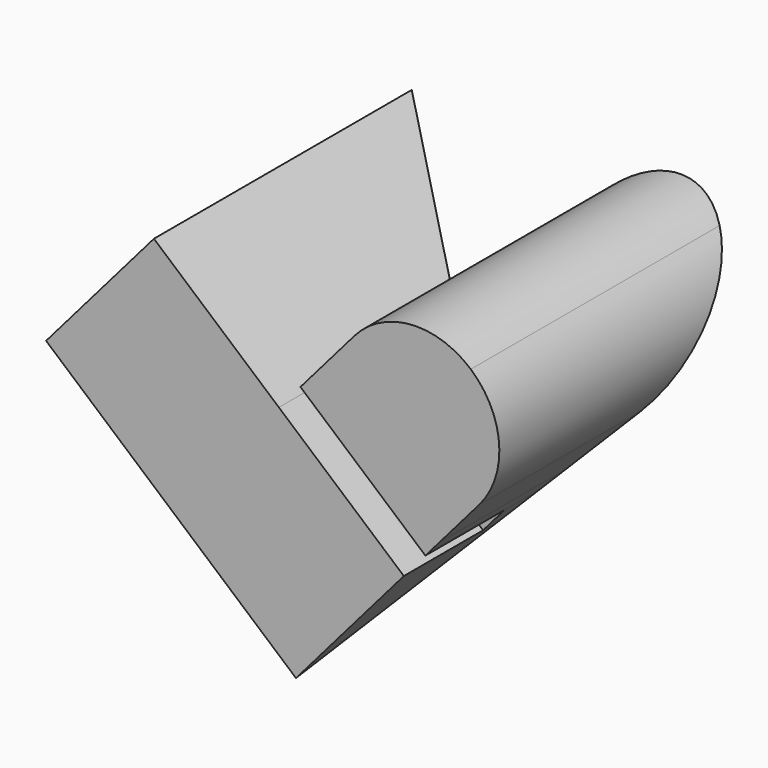
from build123d import *

# Parameters (mm, degrees)
F2_DEPTH = 70
F3_DEPTH = 100
F4_DEPTH = 100


with BuildPart() as f2:
    # F0 (on Front) → F2 (new body)
    with BuildSketch(Plane.XZ):
        Polygon((-13.698499, 25.242625), (24.15161, -7.427993), (30.685734, 0.142029), (-7.164375, 32.812647), align=None)
    extrude(amount=F2_DEPTH)

    # F0 (on Front) → F3 (join)
    with BuildSketch(Plane.XZ):
        Polygon((-84.219225, 20.063134), (-8.519008, -45.278101), (24.15161, -7.427993), (-13.698499, 25.242625), (-51.548607, 57.913243), align=None)
        with BuildLine():
            Line((-3.001609, 37.635364), (34.8485, 4.964746))
            Line((34.8485, 4.964746), (47.021043, 19.067084))
            ThreePointArc((47.021043, 19.067084), (53.02883, 37.233619), (44.431297, 54.327447))
            ThreePointArc((44.431297, 54.327447), (26.264762, 60.335234), (9.170934, 51.737701))
            Line((9.170934, 51.737701), (-3.001609, 37.635364))
        make_face()
        Polygon((-7.164375, 32.812647), (30.685734, 0.142029), (34.8485, 4.964746), (-3.001609, 37.635364), align=None)
    extrude(amount=F3_DEPTH)

    # F1 (on Right) → F4 (cut, symmetric)
    with BuildSketch(Plane.YZ):
        Polygon((0, 60.411047), (-100.00176, -45.271806), (-18.930101, -113.777013), (76.973737, -12.424885), align=None)
    extrude(amount=F4_DEPTH, both=True, mode=Mode.SUBTRACT)


solid = f2.part
